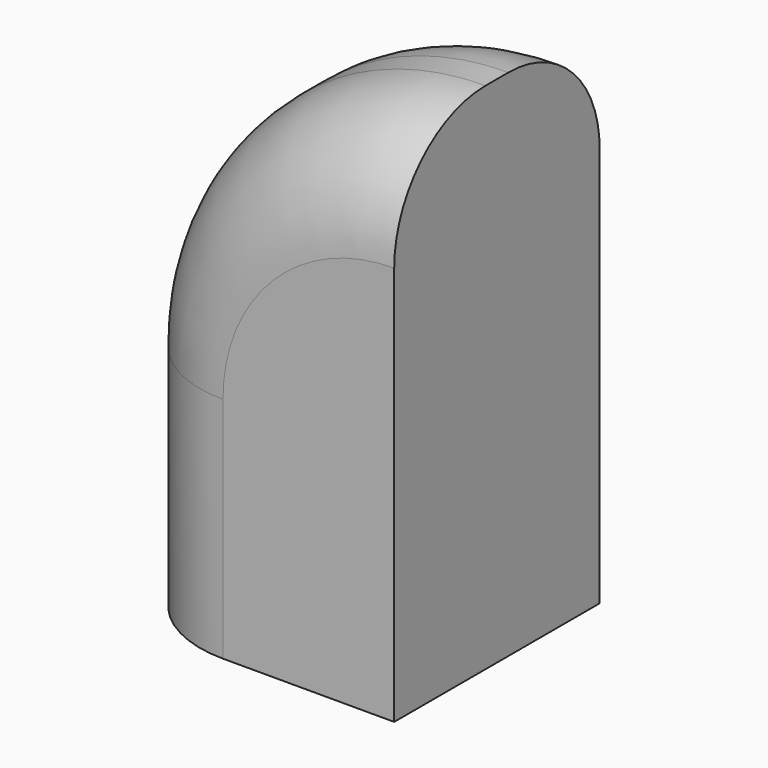
from build123d import *

# Parameters (mm, degrees)
F1_DEPTH = 9
F2_R     = 4


with BuildPart() as f1:
    # F0 (on Front) → F1 (new body)
    with BuildSketch(Plane.XZ):
        with BuildLine():
            Line((-10, 8), (-10, 0))
            Line((-10, 0), (0, 0))
            Line((0, 0), (0, 18))
            ThreePointArc((0, 18), (-7.071068, 15.071068), (-10, 8))
        make_face()
    extrude(amount=F1_DEPTH)

    # F2
    f2_edges = [f1.edges().sort_by_distance(p)[0] for p in [
        (-7.071068, 0, 15.071068),
        (-10, 0, 4),
        (-10, -9, 4),
        (-7.071068, -9, 15.071068),
    ]]
    fillet(f2_edges, radius=F2_R)


solid = f1.part
